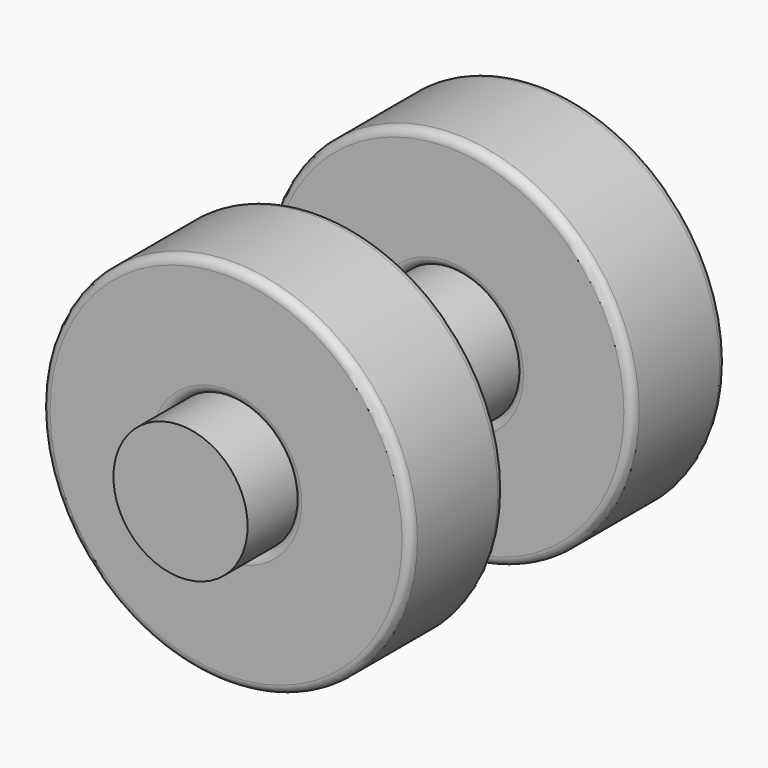
from build123d import *

# Parameters (mm, degrees)
F0_R     = 10.9982
F0_R_2   = 4.0005
F1_DEPTH = 7.00024
F2_R     = 0.508
F4_R     = 10.9982
F4_R_2   = 4.0005
F5_DEPTH = 7.00024
F6_R     = 0.508
F7_DEPTH = 26.924


with BuildPart() as f1:
    # F0 (on Front) → F1 (new body)
    with BuildSketch(Plane.XZ):
        Circle(F0_R)
        Circle(F0_R_2, mode=Mode.SUBTRACT)
    extrude(amount=F1_DEPTH)

    # F2
    f2_edges = [f1.edges().sort_by_distance(p)[0] for p in [
        (-10.9982, -7.00024, 0),
        (-10.9982, 0, 0),
        (-4.0005, 0, 0),
        (-4.0005, -7.00024, 0),
    ]]
    fillet(f2_edges, radius=F2_R)


with BuildPart() as f5:
    # F4 (on offset) → F5 (new body)
    with BuildSketch(Plane.XZ.offset(16.52524)):
        Circle(F4_R)
        Circle(F4_R_2, mode=Mode.SUBTRACT)
    extrude(amount=F5_DEPTH)

    # F6
    f6_edges = [f5.edges().sort_by_distance(p)[0] for p in [
        (-10.9982, -23.52548, 0),
        (-10.9982, -16.52524, 0),
        (-4.0005, -23.52548, 0),
        (-4.0005, -16.52524, 0),
    ]]
    fillet(f6_edges, radius=F6_R)


with BuildPart() as f7:
    # F0 (on Front) → F7 (new body)
    with BuildSketch(Plane.XZ):
        Circle(F0_R_2)
    extrude(amount=F7_DEPTH)


solid = Compound([f1.part, f5.part, f7.part])
